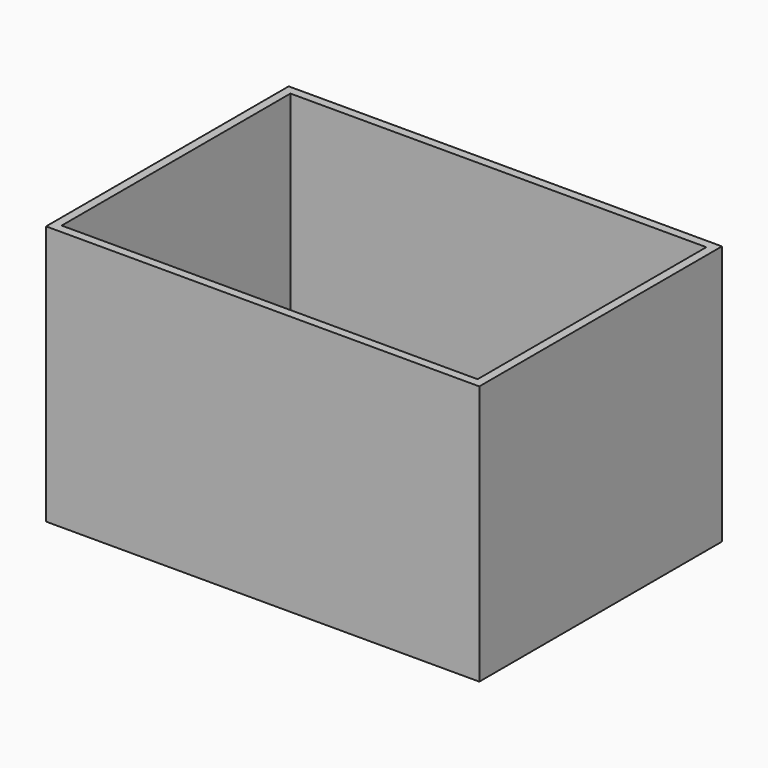
from build123d import *

# Parameters (mm, degrees)
BOX001_W     = 480
BOX001_H     = 330
BOX001_DEPTH = 320
BOX_W        = 500
BOX_H        = 350
BOX_DEPTH    = 300


with BuildPart() as cube001:
    # Box001 → Box001 (new body)
    with BuildSketch(Plane(origin=(10, 10, 10), x_dir=(1, 0, 0), z_dir=(0, 0, 1))):
        with Locations((240, 165)):
            Rectangle(BOX001_W, BOX001_H)
    extrude(amount=BOX001_DEPTH)


with BuildPart() as solar_box:
    # Box → Box (new body)
    with BuildSketch(Plane.XY):
        with Locations((250, 175)):
            Rectangle(BOX_W, BOX_H)
    extrude(amount=BOX_DEPTH)

    # Cut: cut Cube001
    add(cube001.part, mode=Mode.SUBTRACT)


solid = solar_box.part
